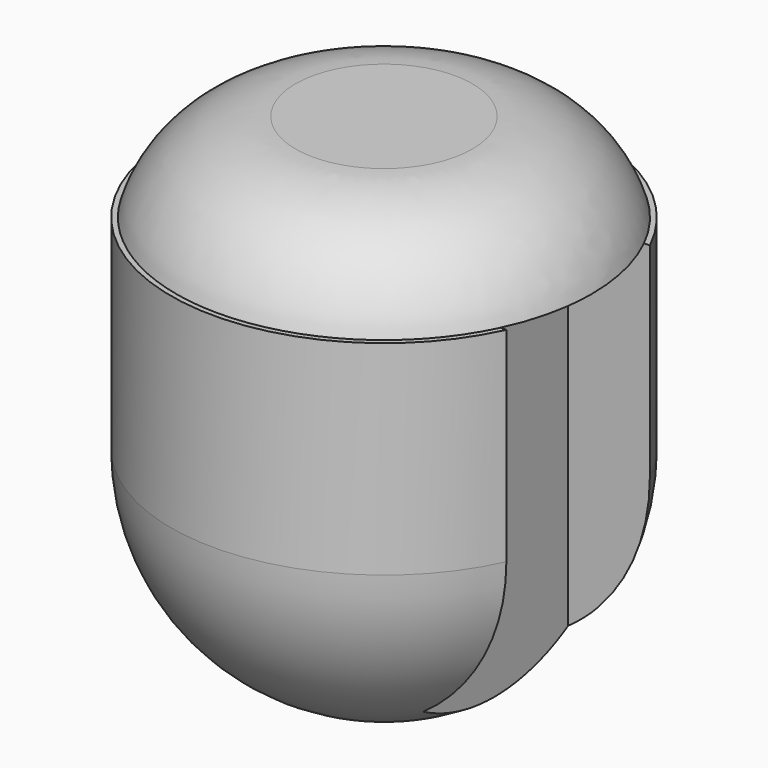
from build123d import *

# Parameters (mm, degrees)
F0_R     = 60
F0_R_2   = 58.5
F1_DEPTH = 70
F2_R     = 60
F3_DEPTH = 25
F4_R     = 35.1
F5_R     = 60
F6_DEPTH = 117.5
F7_R     = 60
F8_W     = 33.7252318859
F8_H     = 51.0791689157
F9_DEPTH = 133


with BuildPart() as f1:
    # F0 (on Top) → F1 (new body)
    with BuildSketch(Plane.XY):
        Circle(F0_R)
        Circle(F0_R_2, mode=Mode.SUBTRACT)
    extrude(amount=-F1_DEPTH)

    # F2 (on Top) → F3 (join)
    with BuildSketch(Plane.XY):
        Circle(F2_R)
    extrude(amount=F3_DEPTH)

    # F4
    f4_edges = [f1.edges().sort_by_distance(p)[0] for p in [
        (-60, 0, 25),
    ]]
    fillet(f4_edges, radius=F4_R)

    # F5 (on Top) → F6 (join)
    with BuildSketch(Plane.XY):
        Circle(F5_R)
    extrude(amount=-F6_DEPTH)

    # F7
    f7_edges = [f1.edges().sort_by_distance(p)[0] for p in [
        (-60, 0, -117.5),
        (-24.9, 0, 25),
    ]]
    fillet(f7_edges, radius=F7_R)

    # F8 (on Top) → F9 (cut)
    with BuildSketch(Plane.XY):
        with Locations((47.9409359396, 0.4799189046)):
            Rectangle(F8_W, F8_H)
    extrude(amount=-F9_DEPTH, mode=Mode.SUBTRACT)


solid = f1.part
